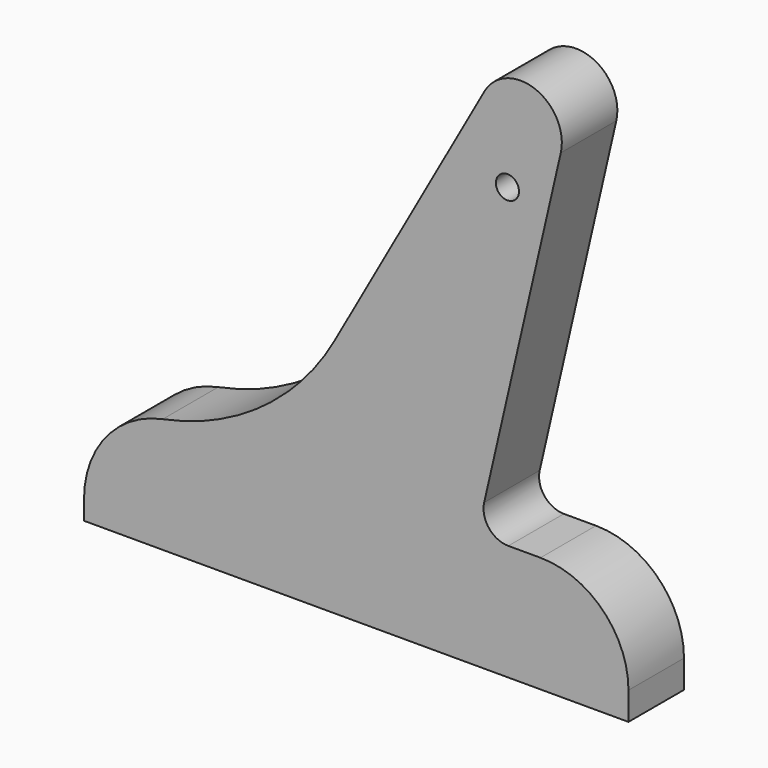
from build123d import *

# Parameters (mm, degrees)
F0_R     = 1.27
F1_DEPTH = 7.62
F2_R     = 10.731179
F3_R     = 27.853237
F4_R     = 4.531262
F5_R     = 9.658061
F6_R     = 2.719813


with BuildPart() as f1:
    # F0 (on Front) → F1 (new body)
    with BuildSketch(Plane.XZ):
        Polygon((-31.954539, 12.834297), (-31.954539, 0), (0, 0), (27.812107, 0), (27.812107, 12.72366), (11.206285, 12.72366), (27.512231, 83.545011), (-12.00365, 12.834297), align=None)
        with Locations((14.526148, 47.354116)):
            Circle(F0_R, mode=Mode.SUBTRACT)
    extrude(amount=F1_DEPTH)

    # F2
    f2_edges = [f1.edges().sort_by_distance(p)[0] for p in [
        (-31.954539, -3.81, 12.834297),
    ]]
    fillet(f2_edges, radius=F2_R)

    # F3
    f3_edges = [f1.edges().sort_by_distance(p)[0] for p in [
        (-12.00365, -3.81, 12.834297),
    ]]
    fillet(f3_edges, radius=F3_R)

    # F4
    f4_edges = [f1.edges().sort_by_distance(p)[0] for p in [
        (27.512231, -3.81, 83.545011),
    ]]
    fillet(f4_edges, radius=F4_R)

    # F5
    f5_edges = [f1.edges().sort_by_distance(p)[0] for p in [
        (27.812107, -3.81, 12.72366),
    ]]
    fillet(f5_edges, radius=F5_R)

    # F6
    f6_edges = [f1.edges().sort_by_distance(p)[0] for p in [
        (11.206285, -3.81, 12.72366),
    ]]
    fillet(f6_edges, radius=F6_R)


solid = f1.part
